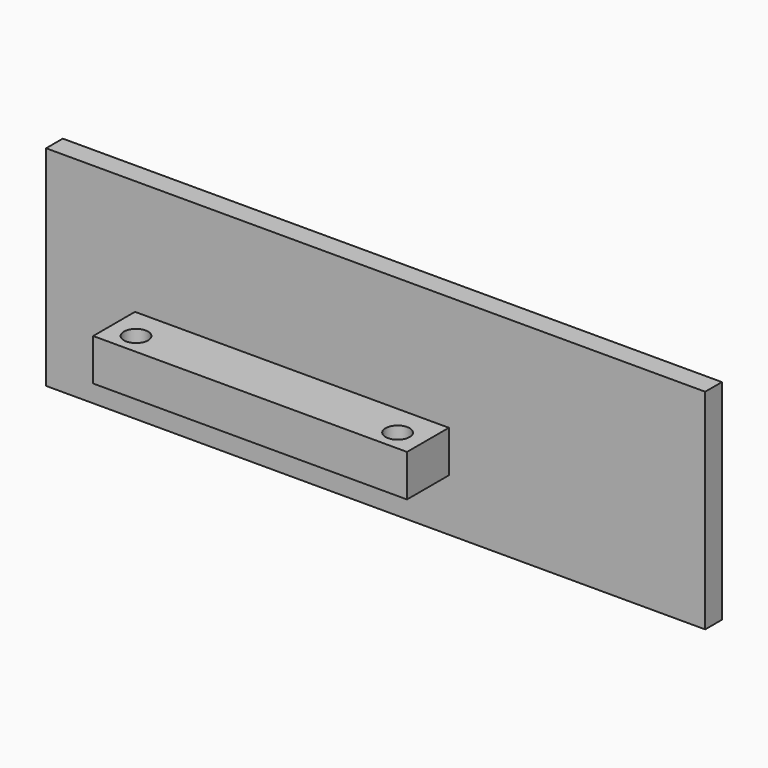
from build123d import *

# Parameters (mm, degrees)
F1_DEPTH = 2
F2_W     = 30
F2_H     = 4
F3_DEPTH = 5
F4_R     = 1.15
F5_DEPTH = 25


with BuildPart() as f1:
    # F0 (on Front) → F1 (new body)
    with BuildSketch(Plane.XZ):
        Polygon((-32.254396, -12.737582), (-32.254396, -22.737582), (-32.254396, -32.737582), (30.745604, -32.737582), (30.745604, -12.737582), align=None)
    extrude(amount=F1_DEPTH)

    # F2 (on face) → F3 (join)
    with BuildSketch(Plane.XZ.offset(2)):
        with Locations((-8.754396, -25.737582)):
            Rectangle(F2_W, F2_H)
    extrude(amount=F3_DEPTH)

    # F4 (on face) → F5 (cut)
    with BuildSketch(Plane.XY.offset(-23.737582)):
        with Locations((-21.254396, -5)):
            Circle(F4_R)
        with Locations((3.745604, -5)):
            Circle(F4_R)
    extrude(amount=-F5_DEPTH, mode=Mode.SUBTRACT)


solid = f1.part
